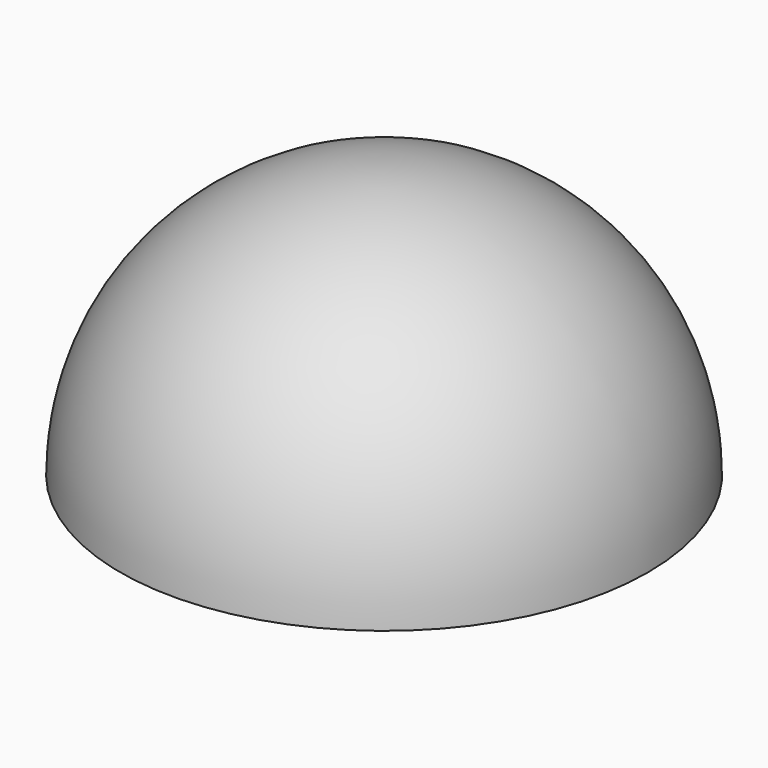
from build123d import *

# Parameters (mm, degrees)
BOX061_W     = 10
BOX061_H     = 10
BOX061_DEPTH = 10


with BuildPart() as cube004:
    # Box061 → Box061 (new body)
    with BuildSketch(Plane(origin=(-5, -5, -10), x_dir=(1, 0, 0), z_dir=(0, 0, 1))):
        with Locations((5, 5)):
            Rectangle(BOX061_W, BOX061_H)
    extrude(amount=BOX061_DEPTH)


with BuildPart() as sapphire_half_ball_lens004:
    # Sphere004 → Sphere004 (revolve)
    with BuildSketch(Plane.XZ):
        with BuildLine():
            ThreePointArc((0, -2), (2, 0), (0, 2))
            Line((0, 2), (0, -2))
        make_face()
    revolve(axis=Axis((0, 0, 0), (0, 0, 1)))

    # Cut012: cut Cube004
    add(cube004.part, mode=Mode.SUBTRACT)


with BuildPart() as sapphire_half_ball_lens004_1:
    # Cut012 placement: moved
    add(sapphire_half_ball_lens004.part.moved(Location((0, 0, 3.89))))


solid = sapphire_half_ball_lens004_1.part
